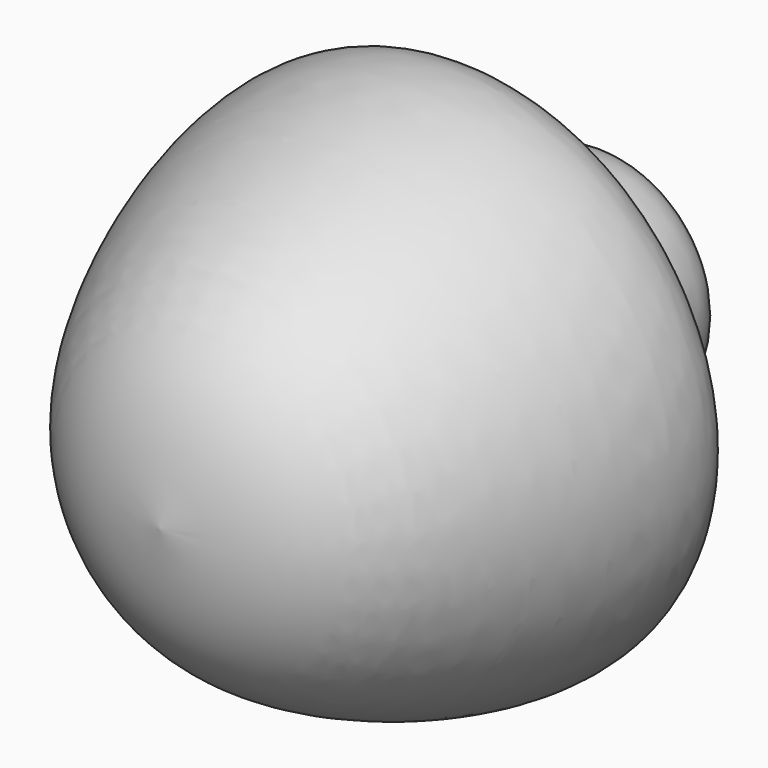
from build123d import *


with BuildPart() as f1:
    # F0 (on Top) → F1 (revolve)
    with BuildSketch(Plane.XY):
        with BuildLine():
            Line((0, 18.7544748187), (0, 4.6088709496))
            Line((0, 4.6088709496), (0, -3.3183873165))
            add(Edge.make_bspline(
                [(0, -3.3183873165), (2.4589972389, -3.0208466732), (8.0153220579, -2.3485269019), (13.2839712017, 15.2798465174), (3.0018987139, 9.4497038651), (6.3646051345, 20.3267696074), (1.9993832647, 19.2483970372), (0, 18.7544748187)],
                knots=[0, 0, 0, 0, 0.2114169092, 0.4777154693, 0.6449353282, 0.8373712989, 1, 1, 1, 1], degree=3))
        make_face()
    revolve(axis=Axis((0, 0.6452418165, 0), (0, -1, 0)))


solid = f1.part
